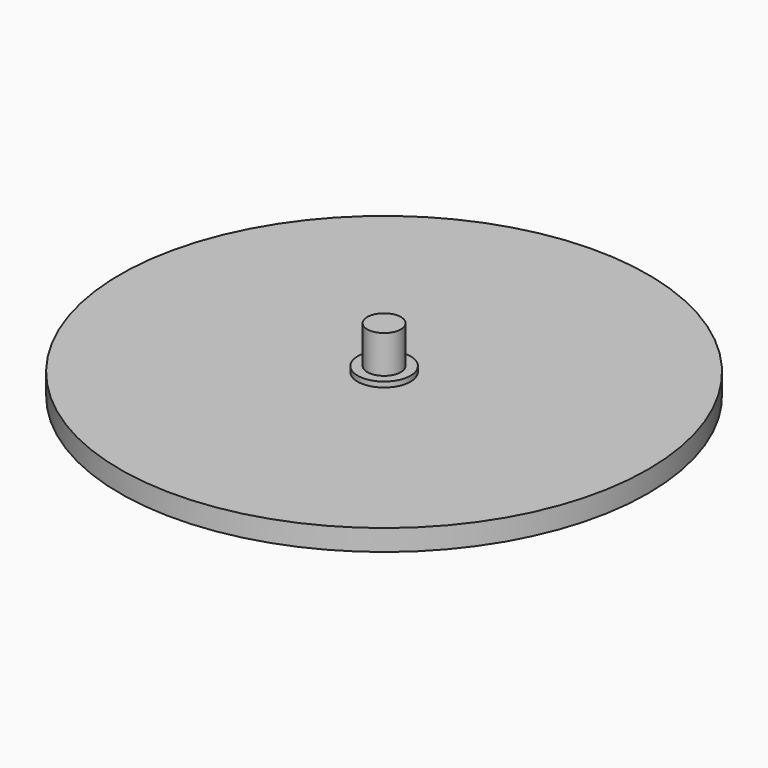
from build123d import *

# Parameters (mm, degrees)
F0_R       = 5
F0_R_2     = 3.175
F1_DEPTH   = 1
F2_R       = 3.175
F3_DEPTH   = 7.14
F0_R_3     = 50
F1_FACE1_R = 5
F4_DEPTH   = 4


with BuildPart() as f1:
    # F0 (on Top) → F1 (new body)
    with BuildSketch(Plane.XY):
        Circle(F0_R)
        Circle(F0_R_2, mode=Mode.SUBTRACT)
        Circle(F0_R_2)
    extrude(amount=F1_DEPTH)

    # F2 (on face) → F3 (join)
    with BuildSketch(Plane.XY.offset(1)):
        Circle(F2_R)
    extrude(amount=F3_DEPTH)

    # F0 (on Top) + F1_face1 (on face) → F4 (join)
    with BuildSketch(Plane.XY):
        Circle(F0_R_3)
        Circle(F0_R, mode=Mode.SUBTRACT)
    with BuildSketch(Plane(origin=(0, 0, 0), x_dir=(1, 0, 0), z_dir=(0, 0, -1))):
        Circle(F1_FACE1_R)
    extrude(amount=-F4_DEPTH, dir=(0, 0, 1))


solid = f1.part
